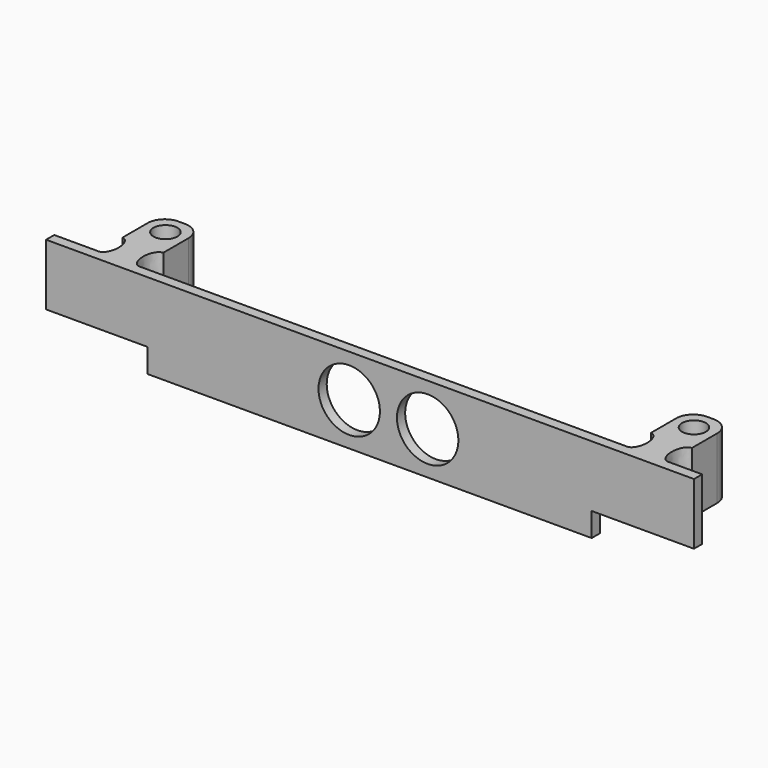
from build123d import *

# Parameters (mm, degrees)
F0_W      = 190
F0_H      = 25
F1_DEPTH  = 3
F3_D      = 18
F4_D      = 18
F5_W      = 12
F5_H      = 25
F6_DEPTH  = 23
F7_R      = 5
F9_D      = 7
F11_DEPTH = 50
F12_DEPTH = 25.4
F13_W     = 30
F13_H     = 7
F13_W_2   = 29.7052872181
F14_DEPTH = 70


with BuildPart() as f1:
    # F0 (on Front) → F1 (new body)
    with BuildSketch(Plane.XZ):
        with Locations((-95, 12.5)):
            Rectangle(F0_W, F0_H)
    extrude(amount=F1_DEPTH)

    # F3 (through all)
    with Locations(Plane.XZ.offset(3)):
        with Locations((-78.1028885841, 12.5)):
            Hole(F3_D / 2)

    # F4 (through all)
    with Locations(Plane.XZ.offset(3)):
        with Locations((-101.1028885841, 12.5)):
            Hole(F4_D / 2)

    # F5 (on face) → F6 (join)
    with BuildSketch(Plane(origin=(0, 0, 0), x_dir=(-1, 0, 0), z_dir=(0, 1, 0))):
        with Locations((171, 12.5)):
            Rectangle(F5_W, F5_H)
        with Locations((16, 12.5)):
            Rectangle(F5_W, F5_H)
    extrude(amount=F6_DEPTH)

    # F7
    f7_edges = [f1.edges().sort_by_distance(p)[0] for p in [
        (-10, 23, 12.5),
        (-22, 23, 12.5),
        (-165, 23, 12.5),
        (-177, 23, 12.5),
    ]]
    fillet(f7_edges, radius=F7_R)

    # F9 (through all)
    with Locations(Plane(origin=(0, 0, 0), x_dir=(1, 0, 0), z_dir=(0, 0, -1))):
        with Locations((-16, -17), (-171, -17)):
            Hole(F9_D / 2)

    # F10 (on face) → F11 (cut)
    with BuildSketch(Plane(origin=(0, 0, 0), x_dir=(1, 0, 0), z_dir=(0, 0, -1))):
        with BuildLine():
            Line((-10, 0), (-10, -8.7173189968))
            add(Edge.make_bspline(
                [(-10, -8.7173189968), (-7.7008124763, -8.7173189968), (-7.5862252656, -4.5655746788), (-7.4716380548, -0.4138303608), (-9.7594039535, 0)],
                knots=[0, 0, 0, 1.5209375403, 1.5209375403, 3.0418750806, 3.0418750806, 3.0418750806], degree=2, weights=[1, 0.7245129853, 1, 0.7245129853, 1]))
            Line((-9.7594039535, 0), (-10, 0))
        make_face()
        with BuildLine():
            add(Edge.make_bspline(
                [(-22.2405960465, 0), (-24.5283619452, -0.4138303608), (-24.4137747344, -4.5655746788), (-24.2991875237, -8.7173189968), (-22, -8.7173189968)],
                knots=[3.2413102266, 3.2413102266, 3.2413102266, 4.7622477669, 4.7622477669, 6.2831853072, 6.2831853072, 6.2831853072], degree=2, weights=[1, 0.7245129853, 1, 0.7245129853, 1]))
            Line((-22, -8.7173189968), (-22, 0))
            Line((-22, 0), (-22.2405960465, 0))
        make_face()
        with BuildLine():
            add(Edge.make_bspline(
                [(-165, -8.7173189968), (-162.7008124763, -8.7173189968), (-162.5862252656, -4.5655746788), (-162.4716380548, -0.4138303608), (-164.7594039535, 0)],
                knots=[0, 0, 0, 1.5209375403, 1.5209375403, 3.0418750806, 3.0418750806, 3.0418750806], degree=2, weights=[1, 0.7245129853, 1, 0.7245129853, 1]))
            Line((-164.7594039535, 0), (-165, 0))
            Line((-165, 0), (-165, -8.7173189968))
        make_face()
        with BuildLine():
            add(Edge.make_bspline(
                [(-177.2405960465, 0), (-179.5283619452, -0.4138303608), (-179.4137747344, -4.5655746788), (-179.2991875237, -8.7173189968), (-177, -8.7173189968)],
                knots=[3.2413102266, 3.2413102266, 3.2413102266, 4.7622477669, 4.7622477669, 6.2831853072, 6.2831853072, 6.2831853072], degree=2, weights=[1, 0.7245129853, 1, 0.7245129853, 1]))
            Line((-177, -8.7173189968), (-177, 0))
            Line((-177, 0), (-177.2405960465, 0))
        make_face()
    extrude(amount=-F11_DEPTH, mode=Mode.SUBTRACT)

    # F10 (on face) → F12 (cut)
    with BuildSketch(Plane(origin=(0, 0, 0), x_dir=(1, 0, 0), z_dir=(0, 0, -1))):
        with BuildLine():
            add(Edge.make_bspline(
                [(-22, -8.7173189968), (-17.8140176358, -8.7173189968), (-19.9070088179, -2.1630499978), (-22, 4.3912190013), (-24.0929911821, -2.1630499978), (-26.1859823642, -8.7173189968), (-22, -8.7173189968)],
                knots=[0, 0, 0, 2.0943951024, 2.0943951024, 4.1887902048, 4.1887902048, 6.2831853072, 6.2831853072, 6.2831853072], degree=2, weights=[1, 0.5, 1, 0.5, 1, 0.5, 1]))
        make_face()
        with BuildLine():
            add(Edge.make_bspline(
                [(-10, -8.7173189968), (-5.8140176358, -8.7173189968), (-7.9070088179, -2.1630499978), (-10, 4.3912190013), (-12.0929911821, -2.1630499978), (-14.1859823642, -8.7173189968), (-10, -8.7173189968)],
                knots=[0, 0, 0, 2.0943951024, 2.0943951024, 4.1887902048, 4.1887902048, 6.2831853072, 6.2831853072, 6.2831853072], degree=2, weights=[1, 0.5, 1, 0.5, 1, 0.5, 1]))
        make_face()
        with BuildLine():
            add(Edge.make_bspline(
                [(-177, -8.7173189968), (-172.8140176358, -8.7173189968), (-174.9070088179, -2.1630499978), (-177, 4.3912190013), (-179.0929911821, -2.1630499978), (-181.1859823642, -8.7173189968), (-177, -8.7173189968)],
                knots=[0, 0, 0, 2.0943951024, 2.0943951024, 4.1887902048, 4.1887902048, 6.2831853072, 6.2831853072, 6.2831853072], degree=2, weights=[1, 0.5, 1, 0.5, 1, 0.5, 1]))
        make_face()
        with BuildLine():
            add(Edge.make_bspline(
                [(-165, -8.7173189968), (-160.8140176358, -8.7173189968), (-162.9070088179, -2.1630499978), (-165, 4.3912190013), (-167.0929911821, -2.1630499978), (-169.1859823642, -8.7173189968), (-165, -8.7173189968)],
                knots=[0, 0, 0, 2.0943951024, 2.0943951024, 4.1887902048, 4.1887902048, 6.2831853072, 6.2831853072, 6.2831853072], degree=2, weights=[1, 0.5, 1, 0.5, 1, 0.5, 1]))
        make_face()
    extrude(amount=-F12_DEPTH, mode=Mode.SUBTRACT)

    # F13 (on face) → F14 (cut)
    with BuildSketch(Plane.XZ.offset(3)):
        with Locations((-15, 3.5)):
            Rectangle(F13_W, F13_H)
        with Locations((-175.147356391, 3.5)):
            Rectangle(F13_W_2, F13_H)
    extrude(amount=-F14_DEPTH, mode=Mode.SUBTRACT)


solid = f1.part
